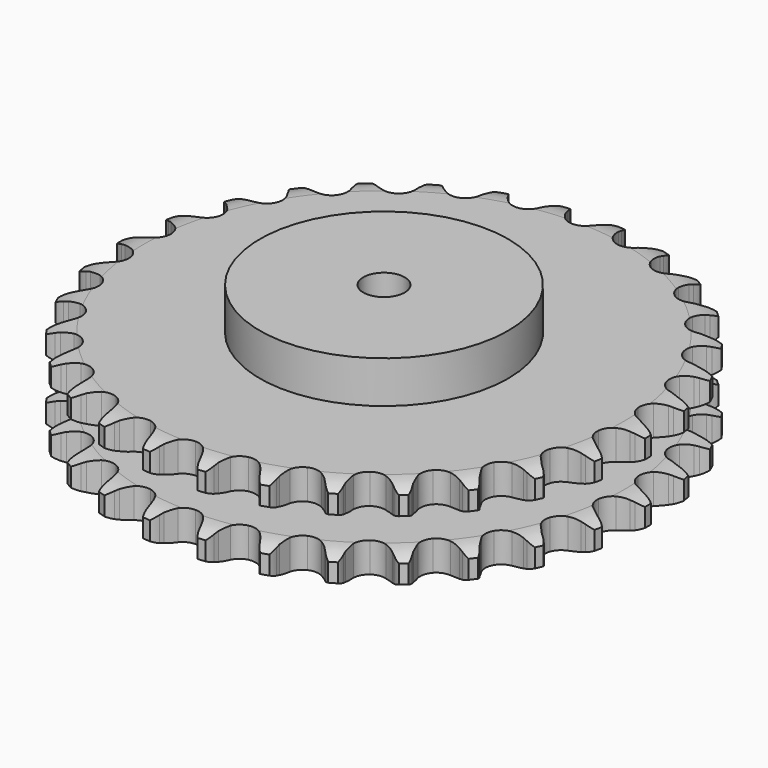
from build123d import *

# Parameters (mm, degrees)
PAD_DEPTH         = 54.6
SKETCH001_R       = 75
PAD001_DEPTH      = 80
SKETCH002_R       = 12.5
POCKET_DEPTH      = 0.001
POCKET_DEPTH_BACK = 80.001


with BuildPart() as part:
    # Sprocket → Pad (new body)
    with BuildSketch(Plane.XY):
        with BuildLine():
            ThreePointArc((-16.960332, 161.366779), (-14.007581, 158.339583), (-11.978542, 154.629373))
            Line((-11.978542, 154.629373), (-11.049607, 152.19248))
            ThreePointArc((-11.049607, 152.19248), (-9.577732, 149.021598), (-7.675466, 146.088631))
            ThreePointArc((-7.675466, 146.088631), (-4.288284, 143.271541), (0, 142.261784))
            ThreePointArc((0, 142.261784), (4.288284, 143.271541), (7.675466, 146.088631))
            ThreePointArc((7.675466, 146.088631), (9.577732, 149.021598), (11.049607, 152.19248))
            Line((11.049607, 152.19248), (11.978542, 154.629373))
            ThreePointArc((11.978542, 154.629373), (14.007581, 158.339583), (16.960332, 161.366779))
            ThreePointArc((16.960332, 161.366779), (19.219169, 157.791823), (20.432473, 153.740829))
            Line((20.432473, 153.740829), (20.834449, 151.164052))
            ThreePointArc((20.834449, 151.164052), (21.614896, 147.756441), (22.865795, 144.492063))
            ThreePointArc((22.865795, 144.492063), (25.593253, 141.032299), (29.577888, 139.153023))
            ThreePointArc((29.577888, 139.153023), (33.982404, 139.24913), (37.881273, 141.300424))
            Line((37.881273, 141.300424), (42.450742, 146.569367))
            ThreePointArc((42.450742, 146.569367), (43.129634, 147.683198), (43.866036, 148.759871))
            ThreePointArc((43.866036, 148.759871), (46.622132, 151.967143), (50.139748, 154.314277))
            ThreePointArc((50.139748, 154.314277), (51.605949, 150.347803), (51.95049, 146.133073))
            Line((51.95049, 146.133073), (51.80794, 143.529029))
            ThreePointArc((51.80794, 143.529029), (51.862851, 140.033618), (52.407712, 136.580498))
            ThreePointArc((52.407712, 136.580498), (54.356243, 132.629268), (57.863081, 129.962607))
            ThreePointArc((57.863081, 129.962607), (62.191329, 129.140863), (66.431487, 130.336711))
            Line((66.431487, 130.336711), (71.996577, 134.540469))
            ThreePointArc((71.996577, 134.540469), (72.892212, 135.48881), (73.836374, 136.388849))
            ThreePointArc((73.836374, 136.388849), (77.199072, 138.95301), (81.127816, 140.5175))
            ThreePointArc((81.127816, 140.5175), (81.737301, 136.332863), (81.198021, 132.138601))
            Line((81.198021, 132.138601), (80.517175, 129.621099))
            ThreePointArc((80.517175, 129.621099), (79.844149, 126.190655), (79.65916, 122.699711))
            ThreePointArc((79.65916, 122.699711), (80.743604, 118.429702), (83.619379, 115.092201))
            ThreePointArc((83.619379, 115.092201), (87.682194, 113.388521), (92.078325, 113.676659))
            Line((92.078325, 113.676659), (98.395815, 116.631507))
            ThreePointArc((98.395815, 116.631507), (99.46905, 117.372912), (100.579709, 118.05698))
            ThreePointArc((100.579709, 118.05698), (104.402043, 119.865964), (108.57021, 120.579434))
            ThreePointArc((108.57021, 120.579434), (108.296341, 116.359522), (106.896809, 112.369037))
            Line((106.896809, 112.369037), (105.707424, 110.048105))
            ThreePointArc((105.707424, 110.048105), (104.335875, 106.832554), (103.42912, 103.456357))
            ThreePointArc((103.42912, 103.456357), (103.602082, 99.05419), (105.721109, 95.191714))
            ThreePointArc((105.721109, 95.191714), (109.340927, 92.680557), (113.700899, 92.048391))
            Line((113.700899, 92.048391), (120.494684, 93.625188))
            ThreePointArc((120.494684, 93.625188), (121.698613, 94.127254), (122.927227, 94.565455))
            ThreePointArc((122.927227, 94.565455), (127.042143, 95.5402), (131.267564, 95.371468))
            ThreePointArc((131.267564, 95.371468), (130.122311, 91.300712), (127.923694, 87.688408))
            Line((127.923694, 87.688408), (126.277751, 85.66548))
            ThreePointArc((126.277751, 85.66548), (124.267623, 82.805358), (122.678732, 79.691464))
            ThreePointArc((122.678732, 79.691464), (121.932652, 75.349534), (123.202319, 71.130892))
            ThreePointArc((123.202319, 71.130892), (126.220937, 67.922007), (130.354198, 66.397166))
            Line((130.354198, 66.397166), (137.327357, 66.527))
            ThreePointArc((137.327357, 66.527), (138.609363, 66.767783), (139.902236, 66.940965))
            ThreePointArc((139.902236, 66.940965), (144.129892, 67.038871), (148.227896, 65.995311))
            ThreePointArc((148.227896, 65.995311), (146.261312, 62.251623), (143.3597, 59.175374))
            Line((143.3597, 59.175374), (141.329134, 57.538863))
            ThreePointArc((141.329134, 57.538863), (138.768279, 55.159171), (136.566694, 52.443672))
            ThreePointArc((136.566694, 52.443672), (134.93418, 48.351742), (135.298997, 43.961309))
            ThreePointArc((135.298997, 43.961309), (137.584486, 40.19494), (141.310394, 37.844067))
            Line((141.310394, 37.844067), (148.158166, 36.521262))
            ThreePointArc((148.158166, 36.521262), (149.462218, 36.49024), (150.762846, 36.390834))
            ThreePointArc((150.762846, 36.390834), (154.918473, 35.607621), (158.709958, 33.734843))
            ThreePointArc((158.709958, 33.734843), (156.007991, 30.481839), (152.530199, 28.076093))
            Line((152.530199, 28.076093), (150.203755, 26.897522))
            ThreePointArc((150.203755, 26.897522), (147.204096, 25.102263), (144.486037, 22.903839))
            ThreePointArc((144.486037, 22.903839), (142.038437, 19.240747), (141.482459, 14.870406))
            ThreePointArc((141.482459, 14.870406), (142.934932, 10.711161), (146.090646, 7.637001))
            Line((146.090646, 7.637001), (152.513752, 4.91937))
            ThreePointArc((152.513752, 4.91937), (153.782858, 4.617898), (155.034396, 4.250249))
            ThreePointArc((155.034396, 4.250249), (158.936373, 2.620147), (162.255633, 0))
            ThreePointArc((162.255633, 0), (158.936373, -2.620147), (155.034396, -4.250249))
            Line((155.034396, -4.250249), (152.513752, -4.91937))
            ThreePointArc((152.513752, -4.91937), (149.206387, -6.051734), (146.090646, -7.637001))
            ThreePointArc((146.090646, -7.637001), (142.934932, -10.711161), (141.482459, -14.870406))
            ThreePointArc((141.482459, -14.870406), (142.038437, -19.240747), (144.486037, -22.903839))
            Line((144.486037, -22.903839), (150.203755, -26.897522))
            ThreePointArc((150.203755, -26.897522), (151.382448, -27.456268), (152.530199, -28.076093))
            ThreePointArc((152.530199, -28.076093), (156.007991, -30.481839), (158.709958, -33.734843))
            ThreePointArc((158.709958, -33.734843), (154.918473, -35.607621), (150.762846, -36.390834))
            Line((150.762846, -36.390834), (148.158166, -36.521262))
            ThreePointArc((148.158166, -36.521262), (144.687643, -36.941241), (141.310394, -37.844067))
            ThreePointArc((141.310394, -37.844067), (137.584486, -40.19494), (135.298997, -43.961309))
            ThreePointArc((135.298997, -43.961309), (134.93418, -48.351742), (136.566694, -52.443672))
            Line((136.566694, -52.443672), (141.329134, -57.538863))
            ThreePointArc((141.329134, -57.538863), (142.365899, -58.330463), (143.3597, -59.175374))
            ThreePointArc((143.3597, -59.175374), (146.261312, -62.251623), (148.227896, -65.995311))
            ThreePointArc((148.227896, -65.995311), (144.129892, -67.038871), (139.902236, -66.940965))
            Line((139.902236, -66.940965), (137.327357, -66.527))
            ThreePointArc((137.327357, -66.527), (133.845355, -66.216239), (130.354198, -66.397166))
            ThreePointArc((130.354198, -66.397166), (126.220937, -67.922007), (123.202319, -71.130892))
            ThreePointArc((123.202319, -71.130892), (121.932652, -75.349534), (122.678732, -79.691464))
            Line((122.678732, -79.691464), (126.277751, -85.66548))
            ThreePointArc((126.277751, -85.66548), (127.127278, -86.655338), (127.923694, -87.688408))
            ThreePointArc((127.923694, -87.688408), (130.122311, -91.300712), (131.267564, -95.371468))
            ThreePointArc((131.267564, -95.371468), (127.042143, -95.5402), (122.927227, -94.565455))
            Line((122.927227, -94.565455), (120.494684, -93.625188))
            ThreePointArc((120.494684, -93.625188), (117.153383, -92.59727), (113.700899, -92.048391))
            ThreePointArc((113.700899, -92.048391), (109.340927, -92.680557), (105.721109, -95.191714))
            ThreePointArc((105.721109, -95.191714), (103.602082, -99.05419), (103.42912, -103.456357))
            Line((103.42912, -103.456357), (105.707424, -110.048105))
            ThreePointArc((105.707424, -110.048105), (106.332584, -111.192958), (106.896809, -112.369037))
            ThreePointArc((106.896809, -112.369037), (108.296341, -116.359522), (108.57021, -120.579434))
            ThreePointArc((108.57021, -120.579434), (104.402043, -119.865964), (100.579709, -118.05698))
            Line((100.579709, -118.05698), (98.395815, -116.631507))
            ThreePointArc((98.395815, -116.631507), (95.341245, -114.931355), (92.078325, -113.676659))
            ThreePointArc((92.078325, -113.676659), (87.682194, -113.388521), (83.619379, -115.092201))
            ThreePointArc((83.619379, -115.092201), (80.743604, -118.429702), (79.65916, -122.699711))
            Line((79.65916, -122.699711), (80.517175, -129.621099))
            ThreePointArc((80.517175, -129.621099), (80.890646, -130.870912), (81.198021, -132.138601))
            ThreePointArc((81.198021, -132.138601), (81.737301, -136.332863), (81.127816, -140.5175))
            ThreePointArc((81.127816, -140.5175), (77.199072, -138.95301), (73.836374, -136.388849))
            Line((73.836374, -136.388849), (71.996577, -134.540469))
            ThreePointArc((71.996577, -134.540469), (69.362238, -132.242389), (66.431487, -130.336711))
            ThreePointArc((66.431487, -130.336711), (62.191329, -129.140863), (57.863081, -129.962607))
            ThreePointArc((57.863081, -129.962607), (54.356243, -132.629268), (52.407712, -136.580498))
            Line((52.407712, -136.580498), (51.80794, -143.529029))
            ThreePointArc((51.80794, -143.529029), (51.913398, -144.82918), (51.95049, -146.133073))
            ThreePointArc((51.95049, -146.133073), (51.605949, -150.347803), (50.139748, -154.314277))
            ThreePointArc((50.139748, -154.314277), (46.622132, -151.967143), (43.866036, -148.759871))
            Line((43.866036, -148.759871), (42.450742, -146.569367))
            ThreePointArc((42.450742, -146.569367), (40.351768, -143.773796), (37.881273, -141.300424))
            ThreePointArc((37.881273, -141.300424), (33.982404, -139.24913), (29.577888, -139.153023))
            ThreePointArc((29.577888, -139.153023), (25.593253, -141.032299), (22.865795, -144.492063))
            Line((22.865795, -144.492063), (20.834449, -151.164052))
            ThreePointArc((20.834449, -151.164052), (20.667286, -152.457717), (20.432473, -153.740829))
            ThreePointArc((20.432473, -153.740829), (19.219169, -157.791823), (16.960332, -161.366779))
            ThreePointArc((16.960332, -161.366779), (14.007581, -158.339583), (11.978542, -154.629373))
            Line((11.978542, -154.629373), (11.049607, -152.19248))
            ThreePointArc((11.049607, -152.19248), (9.577732, -149.021598), (7.675466, -146.088631))
            ThreePointArc((7.675466, -146.088631), (4.288284, -143.271541), (0, -142.261784))
            ThreePointArc((0, -142.261784), (-4.288284, -143.271541), (-7.675466, -146.088631))
            Line((-7.675466, -146.088631), (-11.049607, -152.19248))
            ThreePointArc((-11.049607, -152.19248), (-11.482085, -153.423121), (-11.978542, -154.629373))
            ThreePointArc((-11.978542, -154.629373), (-14.007581, -158.339583), (-16.960332, -161.366779))
            ThreePointArc((-16.960332, -161.366779), (-19.219169, -157.791823), (-20.432473, -153.740829))
            Line((-20.432473, -153.740829), (-20.834449, -151.164052))
            ThreePointArc((-20.834449, -151.164052), (-21.614896, -147.756441), (-22.865795, -144.492063))
            ThreePointArc((-22.865795, -144.492063), (-25.593253, -141.032299), (-29.577888, -139.153023))
            ThreePointArc((-29.577888, -139.153023), (-33.982404, -139.24913), (-37.881273, -141.300424))
            Line((-37.881273, -141.300424), (-42.450742, -146.569367))
            ThreePointArc((-42.450742, -146.569367), (-43.129634, -147.683198), (-43.866036, -148.759871))
            ThreePointArc((-43.866036, -148.759871), (-46.622132, -151.967143), (-50.139748, -154.314277))
            ThreePointArc((-50.139748, -154.314277), (-51.605949, -150.347803), (-51.95049, -146.133073))
            Line((-51.95049, -146.133073), (-51.80794, -143.529029))
            ThreePointArc((-51.80794, -143.529029), (-51.862851, -140.033618), (-52.407712, -136.580498))
            ThreePointArc((-52.407712, -136.580498), (-54.356243, -132.629268), (-57.863081, -129.962607))
            ThreePointArc((-57.863081, -129.962607), (-62.191329, -129.140863), (-66.431487, -130.336711))
            Line((-66.431487, -130.336711), (-71.996577, -134.540469))
            ThreePointArc((-71.996577, -134.540469), (-72.892212, -135.48881), (-73.836374, -136.388849))
            ThreePointArc((-73.836374, -136.388849), (-77.199072, -138.95301), (-81.127816, -140.5175))
            ThreePointArc((-81.127816, -140.5175), (-81.737301, -136.332863), (-81.198021, -132.138601))
            Line((-81.198021, -132.138601), (-80.517175, -129.621099))
            ThreePointArc((-80.517175, -129.621099), (-79.844149, -126.190655), (-79.65916, -122.699711))
            ThreePointArc((-79.65916, -122.699711), (-80.743604, -118.429702), (-83.619379, -115.092201))
            ThreePointArc((-83.619379, -115.092201), (-87.682194, -113.388521), (-92.078325, -113.676659))
            Line((-92.078325, -113.676659), (-98.395815, -116.631507))
            ThreePointArc((-98.395815, -116.631507), (-99.46905, -117.372912), (-100.579709, -118.05698))
            ThreePointArc((-100.579709, -118.05698), (-104.402043, -119.865964), (-108.57021, -120.579434))
            ThreePointArc((-108.57021, -120.579434), (-108.296341, -116.359522), (-106.896809, -112.369037))
            Line((-106.896809, -112.369037), (-105.707424, -110.048105))
            ThreePointArc((-105.707424, -110.048105), (-104.335875, -106.832554), (-103.42912, -103.456357))
            ThreePointArc((-103.42912, -103.456357), (-103.602082, -99.05419), (-105.721109, -95.191714))
            ThreePointArc((-105.721109, -95.191714), (-109.340927, -92.680557), (-113.700899, -92.048391))
            Line((-113.700899, -92.048391), (-120.494684, -93.625188))
            ThreePointArc((-120.494684, -93.625188), (-121.698613, -94.127254), (-122.927227, -94.565455))
            ThreePointArc((-122.927227, -94.565455), (-127.042143, -95.5402), (-131.267564, -95.371468))
            ThreePointArc((-131.267564, -95.371468), (-130.122311, -91.300712), (-127.923694, -87.688408))
            Line((-127.923694, -87.688408), (-126.277751, -85.66548))
            ThreePointArc((-126.277751, -85.66548), (-124.267623, -82.805358), (-122.678732, -79.691464))
            ThreePointArc((-122.678732, -79.691464), (-121.932652, -75.349534), (-123.202319, -71.130892))
            ThreePointArc((-123.202319, -71.130892), (-126.220937, -67.922007), (-130.354198, -66.397166))
            Line((-130.354198, -66.397166), (-137.327357, -66.527))
            ThreePointArc((-137.327357, -66.527), (-138.609363, -66.767783), (-139.902236, -66.940965))
            ThreePointArc((-139.902236, -66.940965), (-144.129892, -67.038871), (-148.227896, -65.995311))
            ThreePointArc((-148.227896, -65.995311), (-146.261312, -62.251623), (-143.3597, -59.175374))
            Line((-143.3597, -59.175374), (-141.329134, -57.538863))
            ThreePointArc((-141.329134, -57.538863), (-138.768279, -55.159171), (-136.566694, -52.443672))
            ThreePointArc((-136.566694, -52.443672), (-134.93418, -48.351742), (-135.298997, -43.961309))
            ThreePointArc((-135.298997, -43.961309), (-137.584486, -40.19494), (-141.310394, -37.844067))
            Line((-141.310394, -37.844067), (-148.158166, -36.521262))
            ThreePointArc((-148.158166, -36.521262), (-149.462218, -36.49024), (-150.762846, -36.390834))
            ThreePointArc((-150.762846, -36.390834), (-154.918473, -35.607621), (-158.709958, -33.734843))
            ThreePointArc((-158.709958, -33.734843), (-156.007991, -30.481839), (-152.530199, -28.076093))
            Line((-152.530199, -28.076093), (-150.203755, -26.897522))
            ThreePointArc((-150.203755, -26.897522), (-147.204096, -25.102263), (-144.486037, -22.903839))
            ThreePointArc((-144.486037, -22.903839), (-142.038437, -19.240747), (-141.482459, -14.870406))
            ThreePointArc((-141.482459, -14.870406), (-142.934932, -10.711161), (-146.090646, -7.637001))
            Line((-146.090646, -7.637001), (-152.513752, -4.91937))
            ThreePointArc((-152.513752, -4.91937), (-153.782858, -4.617898), (-155.034396, -4.250249))
            ThreePointArc((-155.034396, -4.250249), (-158.936373, -2.620147), (-162.255633, 0))
            ThreePointArc((-162.255633, 0), (-158.936373, 2.620147), (-155.034396, 4.250249))
            Line((-155.034396, 4.250249), (-152.513752, 4.91937))
            ThreePointArc((-152.513752, 4.91937), (-149.206387, 6.051734), (-146.090646, 7.637001))
            ThreePointArc((-146.090646, 7.637001), (-142.934932, 10.711161), (-141.482459, 14.870406))
            ThreePointArc((-141.482459, 14.870406), (-142.038437, 19.240747), (-144.486037, 22.903839))
            Line((-144.486037, 22.903839), (-150.203755, 26.897522))
            ThreePointArc((-150.203755, 26.897522), (-151.382448, 27.456268), (-152.530199, 28.076093))
            ThreePointArc((-152.530199, 28.076093), (-156.007991, 30.481839), (-158.709958, 33.734843))
            ThreePointArc((-158.709958, 33.734843), (-154.918473, 35.607621), (-150.762846, 36.390834))
            Line((-150.762846, 36.390834), (-148.158166, 36.521262))
            ThreePointArc((-148.158166, 36.521262), (-144.687643, 36.941241), (-141.310394, 37.844067))
            ThreePointArc((-141.310394, 37.844067), (-137.584486, 40.19494), (-135.298997, 43.961309))
            ThreePointArc((-135.298997, 43.961309), (-134.93418, 48.351742), (-136.566694, 52.443672))
            Line((-136.566694, 52.443672), (-141.329134, 57.538863))
            ThreePointArc((-141.329134, 57.538863), (-142.365899, 58.330463), (-143.3597, 59.175374))
            ThreePointArc((-143.3597, 59.175374), (-146.261312, 62.251623), (-148.227896, 65.995311))
            ThreePointArc((-148.227896, 65.995311), (-144.129892, 67.038871), (-139.902236, 66.940965))
            Line((-139.902236, 66.940965), (-137.327357, 66.527))
            ThreePointArc((-137.327357, 66.527), (-133.845355, 66.216239), (-130.354198, 66.397166))
            ThreePointArc((-130.354198, 66.397166), (-126.220937, 67.922007), (-123.202319, 71.130892))
            ThreePointArc((-123.202319, 71.130892), (-121.932652, 75.349534), (-122.678732, 79.691464))
            Line((-122.678732, 79.691464), (-126.277751, 85.66548))
            ThreePointArc((-126.277751, 85.66548), (-127.127278, 86.655338), (-127.923694, 87.688408))
            ThreePointArc((-127.923694, 87.688408), (-130.122311, 91.300712), (-131.267564, 95.371468))
            ThreePointArc((-131.267564, 95.371468), (-127.042143, 95.5402), (-122.927227, 94.565455))
            Line((-122.927227, 94.565455), (-120.494684, 93.625188))
            ThreePointArc((-120.494684, 93.625188), (-117.153383, 92.59727), (-113.700899, 92.048391))
            ThreePointArc((-113.700899, 92.048391), (-109.340927, 92.680557), (-105.721109, 95.191714))
            ThreePointArc((-105.721109, 95.191714), (-103.602082, 99.05419), (-103.42912, 103.456357))
            Line((-103.42912, 103.456357), (-105.707424, 110.048105))
            ThreePointArc((-105.707424, 110.048105), (-106.332584, 111.192958), (-106.896809, 112.369037))
            ThreePointArc((-106.896809, 112.369037), (-108.296341, 116.359522), (-108.57021, 120.579434))
            ThreePointArc((-108.57021, 120.579434), (-104.402043, 119.865964), (-100.579709, 118.05698))
            Line((-100.579709, 118.05698), (-98.395815, 116.631507))
            ThreePointArc((-98.395815, 116.631507), (-95.341245, 114.931355), (-92.078325, 113.676659))
            ThreePointArc((-92.078325, 113.676659), (-87.682194, 113.388521), (-83.619379, 115.092201))
            ThreePointArc((-83.619379, 115.092201), (-80.743604, 118.429702), (-79.65916, 122.699711))
            Line((-79.65916, 122.699711), (-80.517175, 129.621099))
            ThreePointArc((-80.517175, 129.621099), (-80.890646, 130.870912), (-81.198021, 132.138601))
            ThreePointArc((-81.198021, 132.138601), (-81.737301, 136.332863), (-81.127816, 140.5175))
            ThreePointArc((-81.127816, 140.5175), (-77.199072, 138.95301), (-73.836374, 136.388849))
            Line((-73.836374, 136.388849), (-71.996577, 134.540469))
            ThreePointArc((-71.996577, 134.540469), (-69.362238, 132.242389), (-66.431487, 130.336711))
            ThreePointArc((-66.431487, 130.336711), (-62.191329, 129.140863), (-57.863081, 129.962607))
            ThreePointArc((-57.863081, 129.962607), (-54.356243, 132.629268), (-52.407712, 136.580498))
            Line((-52.407712, 136.580498), (-51.80794, 143.529029))
            ThreePointArc((-51.80794, 143.529029), (-51.913398, 144.82918), (-51.95049, 146.133073))
            ThreePointArc((-51.95049, 146.133073), (-51.605949, 150.347803), (-50.139748, 154.314277))
            ThreePointArc((-50.139748, 154.314277), (-46.622132, 151.967143), (-43.866036, 148.759871))
            Line((-43.866036, 148.759871), (-42.450742, 146.569367))
            ThreePointArc((-42.450742, 146.569367), (-40.351768, 143.773796), (-37.881273, 141.300424))
            ThreePointArc((-37.881273, 141.300424), (-33.982404, 139.24913), (-29.577888, 139.153023))
            ThreePointArc((-29.577888, 139.153023), (-25.593253, 141.032299), (-22.865795, 144.492063))
            Line((-22.865795, 144.492063), (-20.834449, 151.164052))
            ThreePointArc((-20.834449, 151.164052), (-20.667286, 152.457717), (-20.432473, 153.740829))
            ThreePointArc((-20.432473, 153.740829), (-19.219169, 157.791823), (-16.960332, 161.366779))
        make_face()
    extrude(amount=PAD_DEPTH)

    # Sketch → Groove (revolve, cut)
    with BuildSketch(Plane.XZ):
        with BuildLine():
            ThreePointArc((144.898368, 0), (152.381683, 0.887302), (159.45, 3.5))
            Line((159.45, 3.5), (159.45, 14.7))
            ThreePointArc((159.45, 14.7), (152.381683, 17.312698), (144.898368, 18.2))
            Line((75, 18.2), (144.898368, 18.2))
            Line((75, 36.4), (75, 18.2))
            Line((144.898368, 36.4), (75, 36.4))
            ThreePointArc((144.898368, 36.4), (152.381683, 37.287302), (159.45, 39.9))
            Line((159.45, 39.9), (159.45, 51.1))
            ThreePointArc((159.45, 51.1), (152.381683, 53.712698), (144.898368, 54.6))
            Line((144.898368, 54.6), (169.45, 54.6))
            Line((169.45, 54.6), (169.45, 0))
            Line((144.898368, 0), (169.45, 0))
        make_face()
    revolve(axis=Axis((0, 0, 0), (0, 0, 1)), mode=Mode.SUBTRACT)

    # Sketch001 → Pad001 (join)
    with BuildSketch(Plane.XY):
        Circle(SKETCH001_R)
    extrude(amount=PAD001_DEPTH)

    # Sketch002 → Pocket (cut, two sides)
    with BuildSketch(Plane.XY) as pocket_sk:
        Circle(SKETCH002_R)
    extrude(amount=-POCKET_DEPTH, mode=Mode.SUBTRACT)
    extrude(pocket_sk.sketch, amount=POCKET_DEPTH_BACK, mode=Mode.SUBTRACT)


solid = part.part
